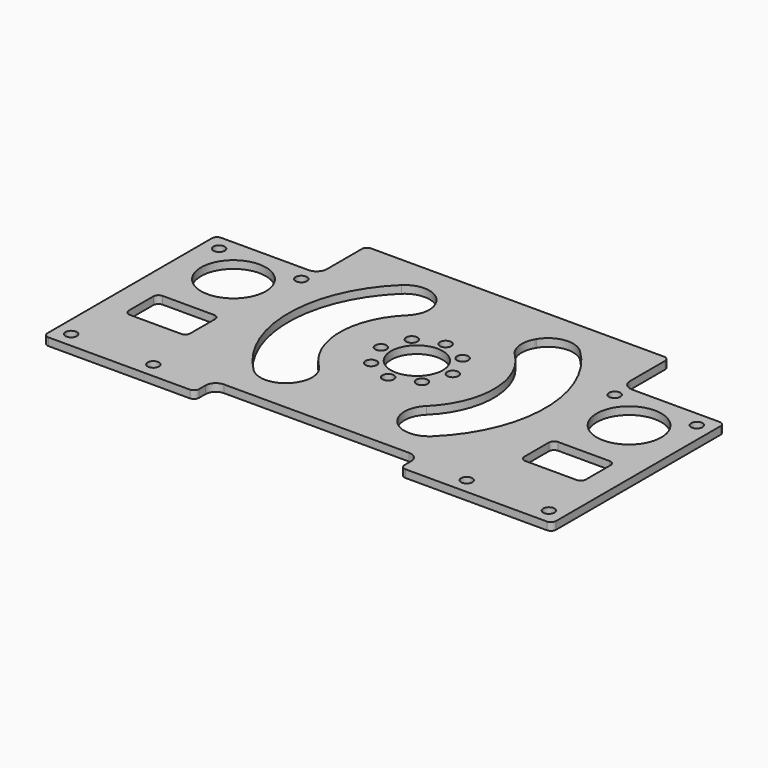
from build123d import *

# Parameters (mm, degrees)
F0_W     = 99
F0_H     = 70
F0_R     = 1.1
F0_R_2   = 6.3
F1_DEPTH = 1.5
F2_R     = 5.05
F2_R_2   = 1.1
F2_W     = 59
F2_H     = 10.5
F2_W_2   = 29.5
F2_H_2   = 6
F3_DEPTH = 1.5
F4_R     = 2
F5_R     = 1


with BuildPart() as f1:
    # F0 (on Top) → F1 (new body)
    with BuildSketch(Plane.XY):
        Rectangle(F0_W, F0_H)
        with Locations((-46.5, -26)):
            Circle(F0_R, mode=Mode.SUBTRACT)
        with Locations((-30.5, -26)):
            Circle(F0_R, mode=Mode.SUBTRACT)
        with BuildLine():
            ThreePointArc((-32.5, -14.5), (-32.7928932188, -15.2071067812), (-33.5, -15.5))
            Line((-33.5, -15.5), (-43.5, -15.5))
            ThreePointArc((-43.5, -15.5), (-44.2071067812, -15.2071067812), (-44.5, -14.5))
            Line((-44.5, -14.5), (-44.5, -8.5))
            ThreePointArc((-44.5, -8.5), (-44.2071067812, -7.7928932188), (-43.5, -7.5))
            Line((-43.5, -7.5), (-33.5, -7.5))
            ThreePointArc((-33.5, -7.5), (-32.7928932188, -7.7928932188), (-32.5, -8.5))
            Line((-32.5, -8.5), (-32.5, -14.5))
        make_face(mode=Mode.SUBTRACT)
        with Locations((30.5, -26)):
            Circle(F0_R, mode=Mode.SUBTRACT)
        with Locations((46.5, -26)):
            Circle(F0_R, mode=Mode.SUBTRACT)
        with BuildLine():
            Line((33.5, -7.5), (43.5, -7.5))
            ThreePointArc((43.5, -7.5), (44.2071067812, -7.7928932188), (44.5, -8.5))
            Line((44.5, -8.5), (44.5, -14.5))
            ThreePointArc((44.5, -14.5), (44.2071067812, -15.2071067812), (43.5, -15.5))
            Line((43.5, -15.5), (33.5, -15.5))
            ThreePointArc((33.5, -15.5), (32.7928932188, -15.2071067812), (32.5, -14.5))
            Line((32.5, -14.5), (32.5, -8.5))
            ThreePointArc((32.5, -8.5), (32.7928932188, -7.7928932188), (33.5, -7.5))
        make_face(mode=Mode.SUBTRACT)
        with Locations((-38.5, 3.5)):
            Circle(F0_R_2, mode=Mode.SUBTRACT)
        with Locations((-46.5, 10)):
            Circle(F0_R, mode=Mode.SUBTRACT)
        with Locations((-30.5, 10)):
            Circle(F0_R, mode=Mode.SUBTRACT)
        with Locations((38.5, 3.5)):
            Circle(F0_R_2, mode=Mode.SUBTRACT)
        with Locations((30.5, 10)):
            Circle(F0_R, mode=Mode.SUBTRACT)
        with Locations((46.5, 10)):
            Circle(F0_R, mode=Mode.SUBTRACT)
    extrude(amount=F1_DEPTH)

    # F2 (on face) → F3 (cut, through all)
    with BuildSketch(Plane.XY.offset(1.5)):
        Circle(F2_R)
        with Locations((0, 7)):
            Circle(F2_R_2)
        with Locations((-4.9497474683, 4.9497474683)):
            Circle(F2_R_2)
        with Locations((-7, 0)):
            Circle(F2_R_2)
        with Locations((-4.9497474683, -4.9497474683)):
            Circle(F2_R_2)
        with Locations((0, -7)):
            Circle(F2_R_2)
        with Locations((4.9497474683, -4.9497474683)):
            Circle(F2_R_2)
        with Locations((7, 0)):
            Circle(F2_R_2)
        with Locations((4.9497474683, 4.9497474683)):
            Circle(F2_R_2)
        with BuildLine():
            ThreePointArc((-9.7467943448, 16.8819430161), (-13.3130208521, 19.2849078273), (-17.4008940589, 17.9501778808))
            ThreePointArc((-17.4008940589, 17.9501778808), (-25, 0), (-17.4008940589, -17.9501778808))
            ThreePointArc((-17.4008940589, -17.9501778808), (-13.3130208521, -19.2849078273), (-9.7467943448, -16.8819430161))
            Line((-9.7467943448, -16.8819430161), (-9.643650761, -16.7032930885))
            ThreePointArc((-9.643650761, -16.7032930885), (-9.0333585083, -13.5821275803), (-10.4677200298, -10.7436882577))
            ThreePointArc((-10.4677200298, -10.7436882577), (-15, 0), (-10.4677200298, 10.7436882577))
            ThreePointArc((-10.4677200298, 10.7436882577), (-9.0333585083, 13.5821275803), (-9.643650761, 16.7032930885))
            Line((-9.643650761, 16.7032930885), (-9.7467943448, 16.8819430161))
        make_face()
        with BuildLine():
            ThreePointArc((17.4008940589, 17.9501778808), (13.3130208521, 19.2849078273), (9.7467943448, 16.8819430161))
            Line((9.7467943448, 16.8819430161), (9.643650761, 16.7032930885))
            ThreePointArc((9.643650761, 16.7032930885), (9.0333585083, 13.5821275803), (10.4677200298, 10.7436882577))
            ThreePointArc((10.4677200298, 10.7436882577), (15, 0), (10.4677200298, -10.7436882577))
            ThreePointArc((10.4677200298, -10.7436882577), (9.0333585083, -13.5821275803), (9.643650761, -16.7032930885))
            Line((9.643650761, -16.7032930885), (9.7467943448, -16.8819430161))
            ThreePointArc((9.7467943448, -16.8819430161), (13.3130208521, -19.2849078273), (17.4008940589, -17.9501778808))
            ThreePointArc((17.4008940589, -17.9501778808), (25, 0), (17.4008940589, 17.9501778808))
        make_face()
        with BuildLine():
            Line((-29.5, 35), (-49.5, 35))
            Line((-49.5, 35), (-49.5, 13))
            Line((-49.5, 13), (-31.5, 13))
            ThreePointArc((-31.5, 13), (-30.0857864376, 13.5857864376), (-29.5, 15))
            Line((-29.5, 15), (-29.5, 24.5))
            Line((-29.5, 24.5), (-29.5, 35))
        make_face()
        with Locations((0, 29.75)):
            Rectangle(F2_W, F2_H)
        with BuildLine():
            Line((49.5, 35), (29.5, 35))
            Line((29.5, 35), (29.5, 24.5))
            Line((29.5, 24.5), (29.5, 15))
            ThreePointArc((29.5, 15), (30.0857864376, 13.5857864376), (31.5, 13))
            Line((31.5, 13), (49.5, 13))
            Line((49.5, 13), (49.5, 35))
        make_face()
        Polygon((-20, -35), (20, -35), (20, -29), (20, -24.4319430161), (-20, -24.4319430161), (-20, -29), align=None)
        with Locations((34.75, -32)):
            Rectangle(F2_W_2, F2_H_2)
        with Locations((-34.75, -32)):
            Rectangle(F2_W_2, F2_H_2)
    extrude(amount=-F3_DEPTH, mode=Mode.SUBTRACT)

    # F4
    f4_edges = [f1.edges().sort_by_distance(p)[0] for p in [
        (-20, -24.431943, 0.75),
        (20, -24.431943, 0.75),
    ]]
    fillet(f4_edges, radius=F4_R)

    # F5
    f5_edges = [f1.edges().sort_by_distance(p)[0] for p in [
        (-49.5, -29, 0.75),
        (20, -29, 0.75),
        (-20, -29, 0.75),
        (49.5, -29, 0.75),
        (49.5, 13, 0.75),
        (29.5, 24.5, 0.75),
        (-49.5, 13, 0.75),
        (-29.5, 24.5, 0.75),
    ]]
    fillet(f5_edges, radius=F5_R)


solid = f1.part
